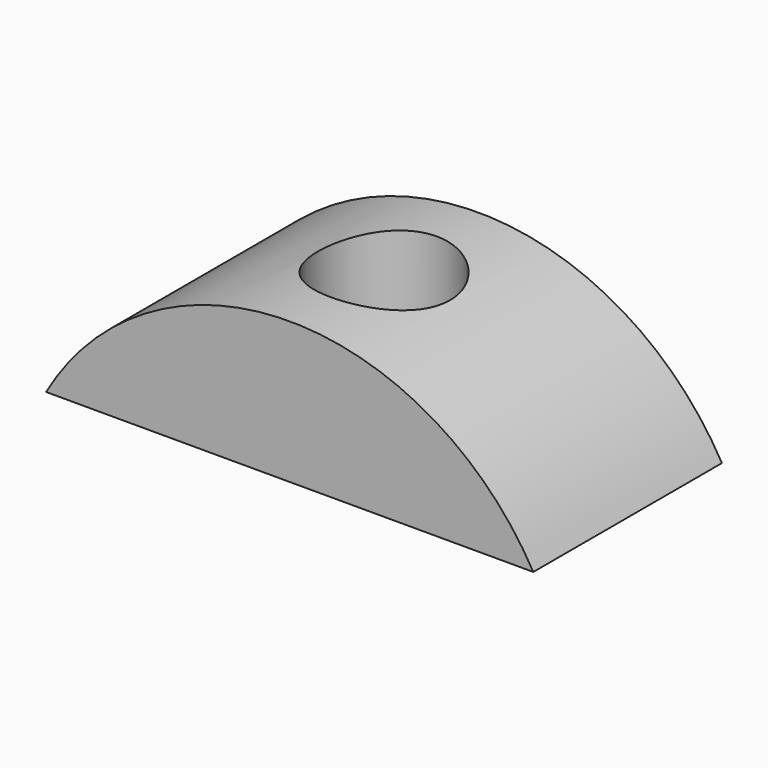
from build123d import *

# Parameters (mm, degrees)
F1_DEPTH = 15
F2_R     = 4.2
F3_DEPTH = 25


with BuildPart() as f1:
    # F0 (on Front) → F1 (new body)
    with BuildSketch(Plane.XZ):
        with BuildLine():
            Line((0, 32.743929), (15.5, 32.743929))
            ThreePointArc((15.5, 32.743929), (0, 41.743929), (-15.5, 32.743929))
            Line((-15.5, 32.743929), (0, 32.743929))
        make_face()
    extrude(amount=-F1_DEPTH)

    # F2 (on face) → F3 (cut)
    with BuildSketch(Plane(origin=(0, 0, 32.743929), x_dir=(1, 0, 0), z_dir=(0, 0, -1))):
        with Locations((0, -7.5)):
            Circle(F2_R)
    extrude(amount=-F3_DEPTH, mode=Mode.SUBTRACT)


solid = f1.part
